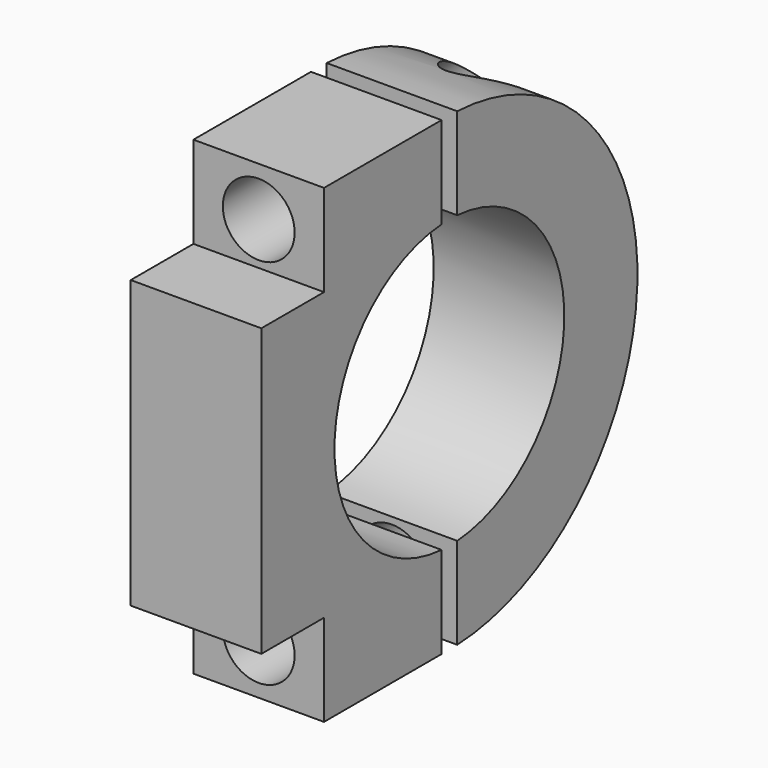
from build123d import *

# Parameters (mm, degrees)
F1_DEPTH = 5
F2_R     = 2.75
F3_DEPTH = 25


with BuildPart() as f1:
    # F0 (on Right) → F1 (new body, symmetric)
    with BuildSketch(Plane.YZ):
        with BuildLine():
            ThreePointArc((-0.75, -10.974402), (-11, 0), (-0.75, 10.974402))
            Line((-0.75, 10.974402), (-0.75, 18))
            Line((-0.75, 18), (-12, 18))
            Line((-12, 18), (-12, 10.974402))
            Line((-12, 10.974402), (-18, 10.974402))
            Line((-18, 10.974402), (-18, -10.974402))
            Line((-18, -10.974402), (-12, -10.974402))
            Line((-12, -10.974402), (-12, -18))
            Line((-12, -18), (-0.75, -18))
            Line((-0.75, -18), (-0.75, -10.974402))
        make_face()
        with BuildLine():
            Line((0.75, -10.974402), (0.75, -17.984368))
            ThreePointArc((0.75, -17.984368), (18, 0), (0.75, 17.984368))
            Line((0.75, 17.984368), (0.75, 10.974402))
            ThreePointArc((0.75, 10.974402), (11, 0), (0.75, -10.974402))
        make_face()
    extrude(amount=F1_DEPTH, both=True)

    # F2 (on Front) → F3 (cut, symmetric)
    with BuildSketch(Plane.XZ):
        with Locations((0, 14.25)):
            Circle(F2_R)
        with Locations((0, -14.25)):
            Circle(F2_R)
    extrude(amount=F3_DEPTH, both=True, mode=Mode.SUBTRACT)


solid = f1.part
